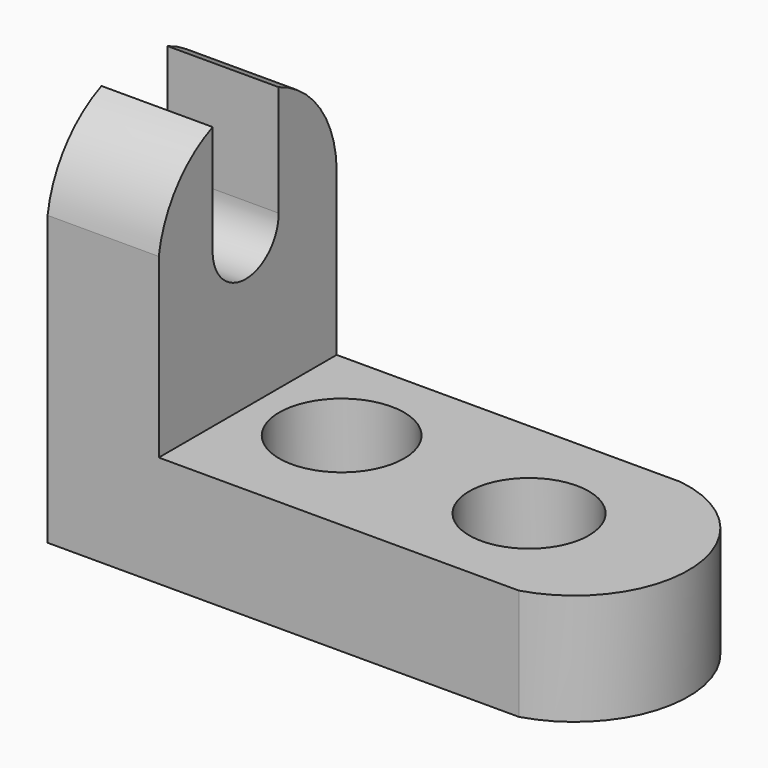
from build123d import *

# Parameters (mm, degrees)
F1_DEPTH = 25.4
F3_DEPTH = 25.4
F5_DEPTH = 25.4
F6_R     = 7.129897
F6_R_2   = 6.832178
F7_DEPTH = 25.4


with BuildPart() as f1:
    # F0 (on Front) → F1 (new body)
    with BuildSketch(Plane.XZ):
        Polygon((-25.733615, 35.668769), (-38.433615, 35.668769), (-38.433615, -8.781231), (25.066385, -8.781231), (25.066385, 3.918769), (-25.733615, 3.918769), align=None)
    extrude(amount=F1_DEPTH)

    # F2 (on face) → F3 (cut)
    with BuildSketch(Plane.YZ.offset(-25.733615)):
        with BuildLine():
            ThreePointArc((-25.4, 24.146574), (-11.982597, 34.99752), (0, 22.580311))
            Line((0, 22.580311), (0, 35.668769))
            Line((0, 35.668769), (-25.4, 35.668769))
            Line((-25.4, 35.668769), (-25.4, 24.146574))
        make_face()
    extrude(amount=-F3_DEPTH, mode=Mode.SUBTRACT)

    # F4 (on face) → F5 (cut)
    with BuildSketch(Plane.YZ.offset(-25.733615)):
        with BuildLine():
            ThreePointArc((-8.279151, 34.206712), (-13.009328, 35.01947), (-17.705537, 34.029128))
            Line((-17.705537, 34.029128), (-17.705537, 21.797176))
            ThreePointArc((-17.705537, 21.797176), (-13.126532, 16.82113), (-8.279151, 21.53613))
            Line((-8.279151, 21.53613), (-8.279151, 34.206712))
        make_face()
    extrude(amount=-F5_DEPTH, mode=Mode.SUBTRACT)

    # F6 (on face) → F7 (cut)
    with BuildSketch(Plane.XY.offset(3.918769)):
        with Locations((-15.662644, -11.877504)):
            Circle(F6_R)
        with Locations((6.787145, -13.182725)):
            Circle(F6_R_2)
        with BuildLine():
            ThreePointArc((13.574292, 0), (24.730975, -11.963104), (15.401599, -25.4))
            Line((15.401599, -25.4), (25.066385, -25.4))
            Line((25.066385, -25.4), (25.066385, 0))
            Line((25.066385, 0), (13.574292, 0))
        make_face()
    extrude(amount=-F7_DEPTH, mode=Mode.SUBTRACT)


solid = f1.part
